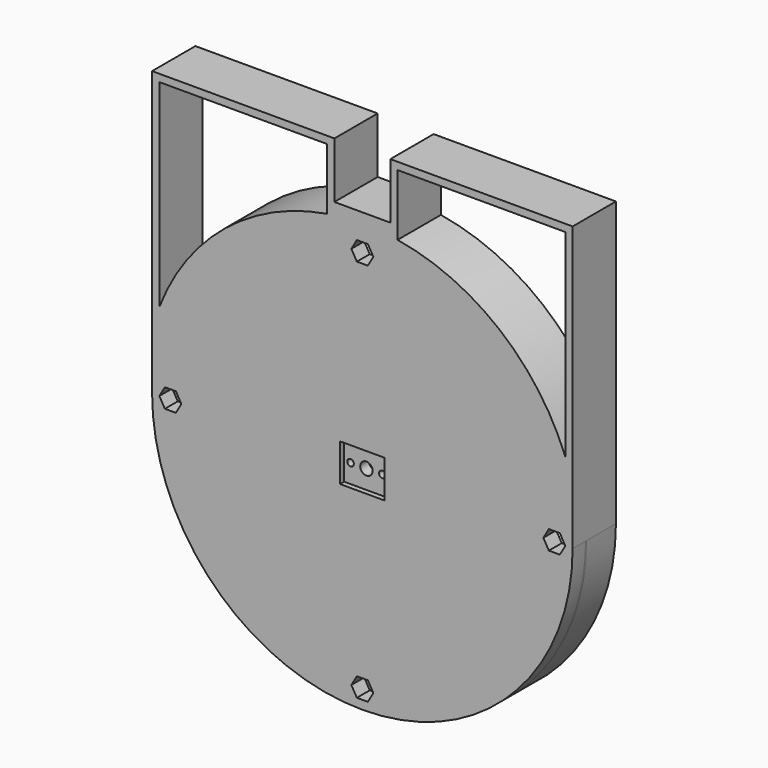
from build123d import *

# Parameters (mm, degrees)
SKETCH105_R     = 57.5
SKETCH105_R_2   = 50.2
PAD037_DEPTH    = 10
SKETCH106_R     = 57.5
SKETCH106_R_2   = 52.7
PAD038_DEPTH    = 10
SKETCH107_R     = 55.2
SKETCH107_R_2   = 45.630592
POCKET056_DEPTH = 10.001
SKETCH108_R     = 55.2
SKETCH108_R_2   = 52.7
PAD039_DEPTH    = 2.6
SKETCH109_R     = 57.5
SKETCH109_R_2   = 52.7
PAD040_DEPTH    = 0.4
SKETCH110_R     = 1.75
POCKET057_DEPTH = 5
SKETCH111_R     = 57.5
PAD041_DEPTH    = 4.4
SKETCH112_W     = 12.18
SKETCH112_H     = 10.29
POCKET058_DEPTH = 1.4
SKETCH113_R     = 1.7
POCKET059_DEPTH = 14.801
SKETCH114_R     = 0.9
POCKET060_DEPTH = 14.801
SKETCH115_R     = 1.55
POCKET061_DEPTH = 1
PAD042_DEPTH    = 14.8


with BuildPart() as part:
    # Sketch105 (on DatumPlane) → Pad037 (new body)
    with BuildSketch(Plane.XZ.offset(10)):
        Circle(SKETCH105_R)
        Circle(SKETCH105_R_2, mode=Mode.SUBTRACT)
    extrude(amount=-PAD037_DEPTH)

    # Sketch106 (on DatumPlane) → Pad038 (new body)
    with BuildSketch(Plane.XZ.offset(10)):
        Circle(SKETCH106_R)
        Circle(SKETCH106_R_2, mode=Mode.SUBTRACT)
    extrude(amount=-PAD038_DEPTH)

    # Sketch107 (on Face4 of PolarPattern012) → Pocket056 (cut, through all)
    with BuildSketch(Plane.XZ.offset(10)):
        Circle(SKETCH107_R)
        Circle(SKETCH107_R_2, mode=Mode.SUBTRACT)
    extrude(amount=-POCKET056_DEPTH, mode=Mode.SUBTRACT)

    # Sketch108 (on Face2 of Pocket056) → Pad039 (new body)
    with BuildSketch(Plane.XZ.offset(10)):
        Circle(SKETCH108_R)
        Circle(SKETCH108_R_2, mode=Mode.SUBTRACT)
    extrude(amount=-PAD039_DEPTH)

    # Sketch109 (on Face6 of Pad039) → Pad040 (new body)
    with BuildSketch(Plane.XZ.offset(10)):
        Circle(SKETCH109_R)
        Circle(SKETCH109_R_2, mode=Mode.SUBTRACT)
    extrude(amount=PAD040_DEPTH)

    # Sketch110 (on Face5 of Pad040) → Pocket057 (cut)
    with BuildSketch(Plane.XZ.offset(10.4)):
        with Locations((0, -52.5)):
            Circle(SKETCH110_R)
        with Locations((-52.5, 0)):
            Circle(SKETCH110_R)
        with Locations((0, 52.5)):
            Circle(SKETCH110_R)
        with Locations((52.5, 0)):
            Circle(SKETCH110_R)
    extrude(amount=-POCKET057_DEPTH, mode=Mode.SUBTRACT)

    # Sketch111 (on Face4 of Pocket057) → Pad041 (new body)
    with BuildSketch(Plane.XZ.offset(10.4)):
        Circle(SKETCH111_R)
        Polygon((3, -52.5), (1.5, -49.901924), (-1.5, -49.901924), (-3, -52.5), (-1.5, -55.098076), (1.5, -55.098076), align=None, mode=Mode.SUBTRACT)
        Polygon((3, 52.5), (1.5, 55.098076), (-1.5, 55.098076), (-3, 52.5), (-1.5, 49.901924), (1.5, 49.901924), align=None, mode=Mode.SUBTRACT)
        Polygon((-49.5, 0), (-51, 2.598076), (-54, 2.598076), (-55.5, 0), (-54, -2.598076), (-51, -2.598076), align=None, mode=Mode.SUBTRACT)
        Polygon((55.5, 0), (54, 2.598076), (51, 2.598076), (49.5, 0), (51, -2.598076), (54, -2.598076), align=None, mode=Mode.SUBTRACT)
    extrude(amount=PAD041_DEPTH)

    # Sketch112 (on Face13 of Pad041) → Pocket058 (cut)
    with BuildSketch(Plane.XZ.offset(14.8)):
        Rectangle(SKETCH112_W, SKETCH112_H)
    extrude(amount=-POCKET058_DEPTH, mode=Mode.SUBTRACT)

    # Sketch113 (on Face4 of Pocket058) → Pocket059 (cut, through all)
    with BuildSketch(Plane.XZ.offset(14.8)):
        Circle(SKETCH113_R)
    extrude(amount=-POCKET059_DEPTH, mode=Mode.SUBTRACT)

    # Sketch114 (on Face4 of Pocket059) → Pocket060 (cut, through all)
    with BuildSketch(Plane.XZ.offset(14.8)):
        with Locations((-4.35, 0)):
            Circle(SKETCH114_R)
        with Locations((4.35, 0)):
            Circle(SKETCH114_R)
    extrude(amount=-POCKET060_DEPTH, mode=Mode.SUBTRACT)

    # Sketch115 (on Face42 of Pocket060) → Pocket061 (cut)
    with BuildSketch(Plane(origin=(0, -10.4, 0), x_dir=(1, 0, 0), z_dir=(0, 1, 0))):
        with Locations((-4.35, 0)):
            Circle(SKETCH115_R)
        with Locations((4.35, 0)):
            Circle(SKETCH115_R)
    extrude(amount=-POCKET061_DEPTH, mode=Mode.SUBTRACT)

    # Sketch116 (on Face1 of Pocket061) → Pad042 (new body)
    with BuildSketch(Plane(origin=(0, 0, 0), x_dir=(1, 0, 0), z_dir=(0, 1, 0))):
        with BuildLine():
            Line((-7.65, -62.26), (7.65, -62.26))
            Line((7.65, -62.26), (7.65, -77.56))
            Line((7.65, -77.56), (57.5, -77.56))
            Line((57.5, 0), (57.5, -77.56))
            ThreePointArc((-57.5, 0), (0, -57.5), (57.5, 0))
            Line((-57.5, 0), (-57.5, -77.56))
            Line((-57.5, -77.56), (-7.65, -77.56))
            Line((-7.65, -62.26), (-7.65, -77.56))
        make_face()
        with BuildLine():
            Line((9.640661, -58.760865), (9.65, -75.56))
            Line((9.65, -75.56), (55.5, -75.56))
            Line((55.500076, -21.447651), (55.5, -75.56))
            ThreePointArc((9.640661, -58.760865), (37.533805, -46.204517), (55.500076, -21.447651))
        make_face(mode=Mode.SUBTRACT)
        with BuildLine():
            Line((-9.65, -75.56), (-55.5, -75.56))
            Line((-55.500076, -21.447651), (-55.5, -75.56))
            ThreePointArc((-55.500076, -21.447651), (-37.533805, -46.204517), (-9.640661, -58.760865))
            Line((-9.640661, -58.760865), (-9.65, -75.56))
        make_face(mode=Mode.SUBTRACT)
    extrude(amount=-PAD042_DEPTH)


solid = part.part
